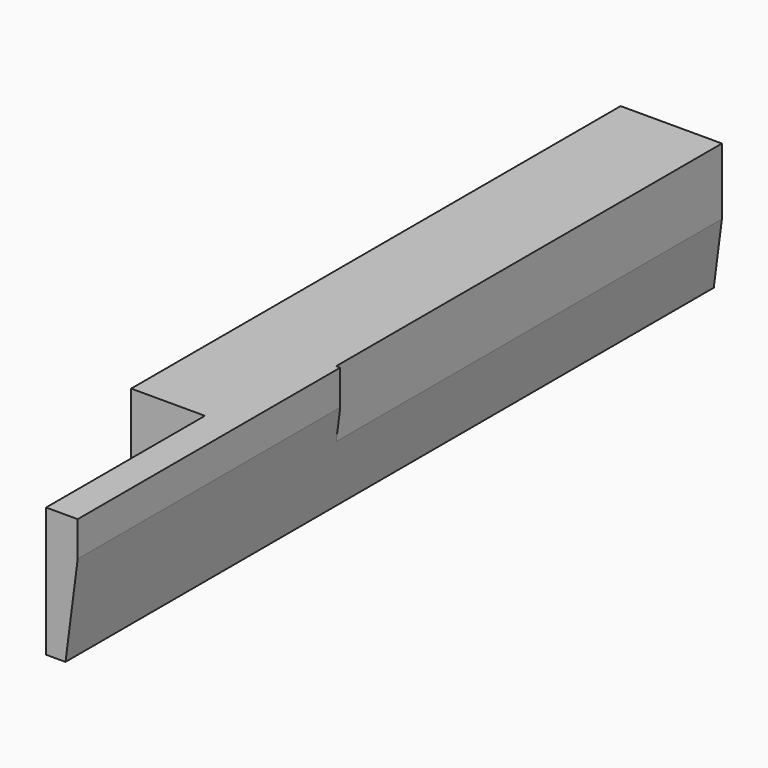
from build123d import *

# Parameters (mm, degrees)
F0_W     = 25
F0_H     = 32
F1_DEPTH = 151
F2_W     = 6.8026450463
F2_H     = 32
F3_DEPTH = 49
F4_W     = 1
F4_H     = 32
F5_DEPTH = 81
F7_DEPTH = 248


with BuildPart() as f1:
    # F0 (on Front) → F1 (new body)
    with BuildSketch(Plane.XZ):
        with Locations((-12.5, -16)):
            Rectangle(F0_W, F0_H)
    extrude(amount=F1_DEPTH)

    # F2 (on face) → F3 (join)
    with BuildSketch(Plane.XZ.offset(151)):
        with Locations((-3.4013225231, -16)):
            Rectangle(F2_W, F2_H)
    extrude(amount=F3_DEPTH)

    # F4 (on face) → F5 (join)
    with BuildSketch(Plane.XZ.offset(200)):
        with Locations((0.5, -16)):
            Rectangle(F4_W, F4_H)
    extrude(amount=-F5_DEPTH)

    # F6 (on face) → F7 (cut)
    with BuildSketch(Plane(origin=(0, 0, 0), x_dir=(-1, 0, 0), z_dir=(0, 1, 0))):
        Polygon((2.8292152565, -38.3428484201), (-1.4198042918, -5.388750229), (-12.2544799853, -38.3428484201), align=None)
    extrude(amount=-F7_DEPTH, mode=Mode.SUBTRACT)


solid = f1.part
